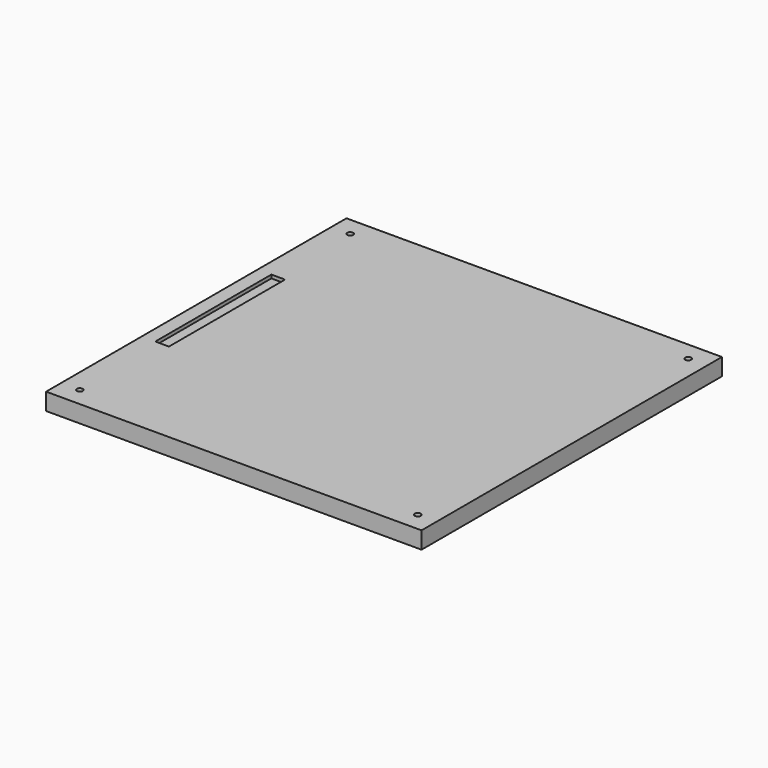
from build123d import *

# Parameters (mm, degrees)
F0_W     = 220
F0_H     = 220
F0_R     = 3
F0_R_2   = 1.75
F1_DEPTH = 10
F2_DEPTH = 3.2
F3_W     = 8
F3_H     = 85
F4_DEPTH = 2


with BuildPart() as f1:
    # F0 (on Top) → F1 (new body)
    with BuildSketch(Plane.XY):
        Rectangle(F0_W, F0_H)
        with Locations((-99, -99)):
            Circle(F0_R, mode=Mode.SUBTRACT)
        with Locations((99, -99)):
            Circle(F0_R, mode=Mode.SUBTRACT)
        with Locations((-99, 99)):
            Circle(F0_R, mode=Mode.SUBTRACT)
        with Locations((99, 99)):
            Circle(F0_R, mode=Mode.SUBTRACT)
        with Locations((-99, 99)):
            Circle(F0_R)
        with Locations((-99, 99)):
            Circle(F0_R_2, mode=Mode.SUBTRACT)
        with Locations((99, 99)):
            Circle(F0_R)
        with Locations((99, 99)):
            Circle(F0_R_2, mode=Mode.SUBTRACT)
        with Locations((99, -99)):
            Circle(F0_R)
        with Locations((99, -99)):
            Circle(F0_R_2, mode=Mode.SUBTRACT)
        with Locations((-99, -99)):
            Circle(F0_R)
        with Locations((-99, -99)):
            Circle(F0_R_2, mode=Mode.SUBTRACT)
    extrude(amount=F1_DEPTH)

    # F0 (on Top) → F2 (cut)
    with BuildSketch(Plane.XY):
        with Locations((-99, -99)):
            Circle(F0_R)
        with Locations((-99, -99)):
            Circle(F0_R_2, mode=Mode.SUBTRACT)
        with Locations((99, -99)):
            Circle(F0_R)
        with Locations((99, -99)):
            Circle(F0_R_2, mode=Mode.SUBTRACT)
        with Locations((99, 99)):
            Circle(F0_R)
        with Locations((99, 99)):
            Circle(F0_R_2, mode=Mode.SUBTRACT)
        with Locations((-99, 99)):
            Circle(F0_R)
        with Locations((-99, 99)):
            Circle(F0_R_2, mode=Mode.SUBTRACT)
    extrude(amount=F2_DEPTH, mode=Mode.SUBTRACT)

    # F3 (on face) → F4 (cut)
    with BuildSketch(Plane.XY.offset(10)):
        with Locations((-98, 2.5)):
            Rectangle(F3_W, F3_H)
    extrude(amount=-F4_DEPTH, mode=Mode.SUBTRACT)


solid = f1.part
